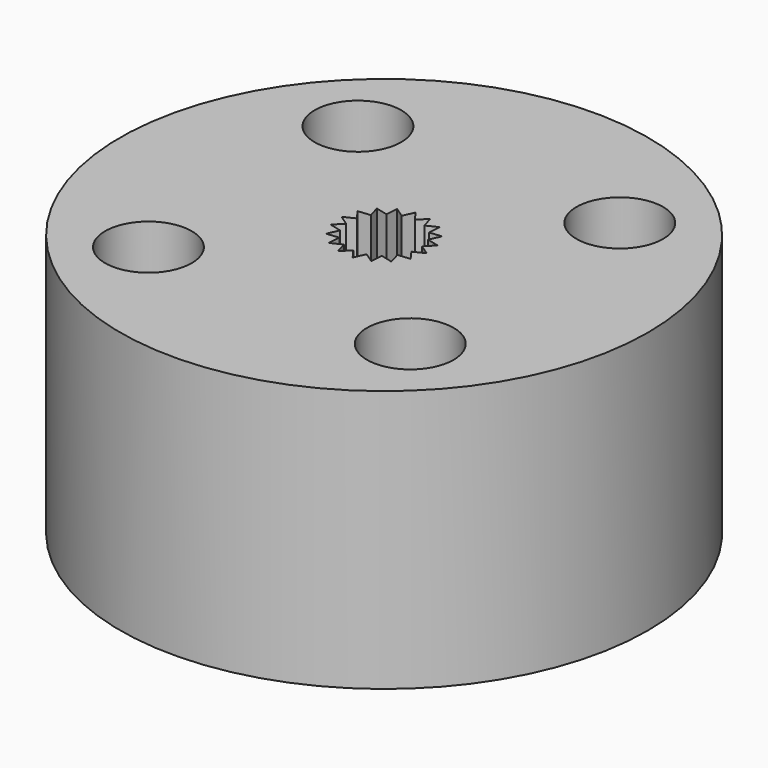
from build123d import *

# Parameters (mm, degrees)
F0_R      = 13.86
F1_DEPTH  = 13.77
F2_R      = 2.35
F2_R_2    = 2.275
F3_DEPTH  = 25
F4_R      = 2.35
F5_DEPTH  = 6.9
F7_R      = 2.38
F8_DEPTH  = 4.35
F9_DEPTH  = 5
F10_R     = 1.15
F11_DEPTH = 25
F12_R     = 2.35
F13_DEPTH = 25
F14_R     = 2.35
F15_DEPTH = 0.5
F16_R     = 1.15
F17_DEPTH = 25


with BuildPart() as f1:
    # F0 (on Top) → F1 (new body)
    with BuildSketch(Plane.XY):
        with Locations((0, 2.4059718373)):
            Circle(F0_R)
    extrude(amount=F1_DEPTH)

    # F2 (on face) → F3 (cut)
    with BuildSketch(Plane.XY.offset(13.77)):
        with Locations((0, 2.4059718373)):
            Circle(F2_R)
        with Locations((6.875, 9.2809718373)):
            Circle(F2_R_2)
        with Locations((-6.875, 9.2809718373)):
            Circle(F2_R_2)
        with Locations((-6.875, -4.4690281627)):
            Circle(F2_R_2)
        with Locations((6.875, -4.4690281627)):
            Circle(F2_R_2)
    extrude(amount=-F3_DEPTH, mode=Mode.SUBTRACT)

    # F4 (on face) → F5 (join)
    with BuildSketch(Plane.XY.offset(13.77)):
        with Locations((0, 2.4059718373)):
            Circle(F4_R)
    extrude(amount=-F5_DEPTH)

    # F7 (on face) → F8 (cut)
    with BuildSketch(Plane.XY.offset(13.77)):
        with Locations((0, 2.4059718373)):
            Circle(F7_R)
    extrude(amount=-F8_DEPTH, mode=Mode.SUBTRACT)

    # F6 (on face) → F9 (join)
    with BuildSketch(Plane.XY.offset(13.77)):
        with BuildLine():
            Line((1.2906450855, 3.7332204924), (1.9303061005, 3.7982068599))
            ThreePointArc((1.9303061005, 3.7982068599), (1.6592213389, 4.1122498183), (1.3377219765, 4.3744483836))
            Line((1.3377219765, 4.3744483836), (1.2906450855, 3.7332204924))
        make_face()
        with BuildLine():
            Line((1.6667554382, 3.2117509874), (2.2900668205, 3.0540412453))
            ThreePointArc((2.2900668205, 3.0540412453), (2.142739488, 3.4418615449), (1.9303061005, 3.7982068599))
            Line((1.9303061005, 3.7982068599), (1.6667554382, 3.2117509874))
        make_face()
        with BuildLine():
            ThreePointArc((2.3736116842, 2.2317088956), (2.3784023848, 2.3187818387), (2.38, 2.4059718373))
            ThreePointArc((2.38, 2.4059718373), (2.3574094927, 2.7331116906), (2.2900668205, 3.0540412453))
            Line((2.2900668205, 3.0540412453), (1.8418304863, 2.5930926248))
            Line((1.8418304863, 2.5930926248), (2.3736116842, 2.2317088956))
        make_face()
        with BuildLine():
            ThreePointArc((2.1708639479, 1.4303952285), (2.3072907469, 1.8221829978), (2.3736116842, 2.2317088956))
            Line((2.3736116842, 2.2317088956), (1.7947535953, 1.9518647336))
            Line((1.7947535953, 1.9518647336), (2.1708639479, 1.4303952285))
        make_face()
        with BuildLine():
            ThreePointArc((1.706277981, 0.7467504984), (1.9684765464, 1.0682498608), (2.1708639479, 1.4303952285))
            Line((2.1708639479, 1.4303952285), (1.5312029329, 1.365408861))
            Line((1.5312029329, 1.365408861), (1.706277981, 0.7467504984))
        make_face()
        with BuildLine():
            ThreePointArc((1.0358897076, 0.2632323492), (1.3922350227, 0.4756657368), (1.706277981, 0.7467504984))
            Line((1.706277981, 0.7467504984), (1.0829665987, 0.9044602404))
            Line((1.0829665987, 0.9044602404), (1.0358897076, 0.2632323492))
        make_face()
        with BuildLine():
            ThreePointArc((0.2405578474, 0.0381602058), (0.648069408, 0.1159050168), (1.0358897076, 0.2632323492))
            Line((1.0358897076, 0.2632323492), (0.5041085098, 0.6246160784))
            Line((0.5041085098, 0.6246160784), (0.2405578474, 0.0381602058))
        make_face()
        with BuildLine():
            ThreePointArc((-0.5837888395, 0.0986810903), (-0.1742629417, 0.0323601531), (0.2405578474, 0.0381602058))
            Line((0.2405578474, 0.0381602058), (-0.1355525053, 0.5596297109))
            Line((-0.1355525053, 0.5596297109), (-0.5837888395, 0.0986810903))
        make_face()
        with BuildLine():
            ThreePointArc((-1.3377219765, 0.4374952909), (-0.9755766088, 0.2351078894), (-0.5837888395, 0.0986810903))
            Line((-0.5837888395, 0.0986810903), (-0.7588638876, 0.717339453))
            Line((-0.7588638876, 0.717339453), (-1.3377219765, 0.4374952909))
        make_face()
        with BuildLine():
            ThreePointArc((-1.9303061005, 1.0137368146), (-1.6592213389, 0.6996938563), (-1.3377219765, 0.4374952909))
            Line((-1.3377219765, 0.4374952909), (-1.2906450855, 1.0787231821))
            Line((-1.2906450855, 1.0787231821), (-1.9303061005, 1.0137368146))
        make_face()
        with BuildLine():
            ThreePointArc((-2.2900668205, 1.7579024293), (-2.142739488, 1.3700821296), (-1.9303061005, 1.0137368146))
            Line((-1.9303061005, 1.0137368146), (-1.6667554382, 1.6001926872))
            Line((-1.6667554382, 1.6001926872), (-2.2900668205, 1.7579024293))
        make_face()
        with BuildLine():
            Line((-1.8418304863, 2.2188510498), (-2.3736116842, 2.580234779))
            ThreePointArc((-2.3736116842, 2.580234779), (-2.3678116315, 2.1654139899), (-2.2900668205, 1.7579024293))
            Line((-2.2900668205, 1.7579024293), (-1.8418304863, 2.2188510498))
        make_face()
        with BuildLine():
            Line((-1.7947535953, 2.860078941), (-2.1708639479, 3.3815484461))
            ThreePointArc((-2.1708639479, 3.3815484461), (-2.3072907469, 2.9897606768), (-2.3736116842, 2.580234779))
            Line((-2.3736116842, 2.580234779), (-1.7947535953, 2.860078941))
        make_face()
        with BuildLine():
            Line((-1.5312029329, 3.4465348136), (-1.706277981, 4.0651931762))
            ThreePointArc((-1.706277981, 4.0651931762), (-1.9684765464, 3.7436938138), (-2.1708639479, 3.3815484461))
            Line((-2.1708639479, 3.3815484461), (-1.5312029329, 3.4465348136))
        make_face()
        with BuildLine():
            Line((-1.0829665987, 3.9074834341), (-1.0358897076, 4.5487113253))
            ThreePointArc((-1.0358897076, 4.5487113253), (-1.3922350227, 4.3362779378), (-1.706277981, 4.0651931762))
            Line((-1.706277981, 4.0651931762), (-1.0829665987, 3.9074834341))
        make_face()
        with BuildLine():
            Line((-0.5041085098, 4.1873275962), (-0.2405578474, 4.7737834687))
            ThreePointArc((-0.2405578474, 4.7737834687), (-0.648069408, 4.6960386578), (-1.0358897076, 4.5487113253))
            Line((-1.0358897076, 4.5487113253), (-0.5041085098, 4.1873275962))
        make_face()
        with BuildLine():
            Line((0.1355525053, 4.2523139637), (0.5837888395, 4.7132625842))
            ThreePointArc((0.5837888395, 4.7132625842), (0.1742629417, 4.7795835214), (-0.2405578474, 4.7737834687))
            Line((-0.2405578474, 4.7737834687), (0.1355525053, 4.2523139637))
        make_face()
        with BuildLine():
            Line((0.7588638876, 4.0946042216), (1.3377219765, 4.3744483836))
            ThreePointArc((1.3377219765, 4.3744483836), (0.9755766088, 4.5768357852), (0.5837888395, 4.7132625842))
            Line((0.5837888395, 4.7132625842), (0.7588638876, 4.0946042216))
        make_face()
    extrude(amount=-F9_DEPTH)

    # F10 (on face) → F11 (cut)
    with BuildSketch(Plane(origin=(0, 0, 6.87), x_dir=(1, 0, 0), z_dir=(0, 0, -1))):
        with Locations((0, -2.4059718373)):
            Circle(F10_R)
    extrude(amount=-F11_DEPTH, mode=Mode.SUBTRACT)

    # F12 (on face) → F13 (cut)
    with BuildSketch(Plane.XY.offset(9.42)):
        with Locations((0, 2.4059718373)):
            Circle(F12_R)
    extrude(amount=-F13_DEPTH, mode=Mode.SUBTRACT)

    # F14 (on face) → F15 (join)
    with BuildSketch(Plane(origin=(0, 0, 9.42), x_dir=(1, 0, 0), z_dir=(0, 0, -1))):
        with Locations((0, -2.4059718373)):
            Circle(F14_R)
    extrude(amount=F15_DEPTH)

    # F16 (on face) → F17 (cut)
    with BuildSketch(Plane(origin=(0, 0, 8.92), x_dir=(1, 0, 0), z_dir=(0, 0, -1))):
        with Locations((0, -2.4059718373)):
            Circle(F16_R)
    extrude(amount=-F17_DEPTH, mode=Mode.SUBTRACT)


solid = f1.part
